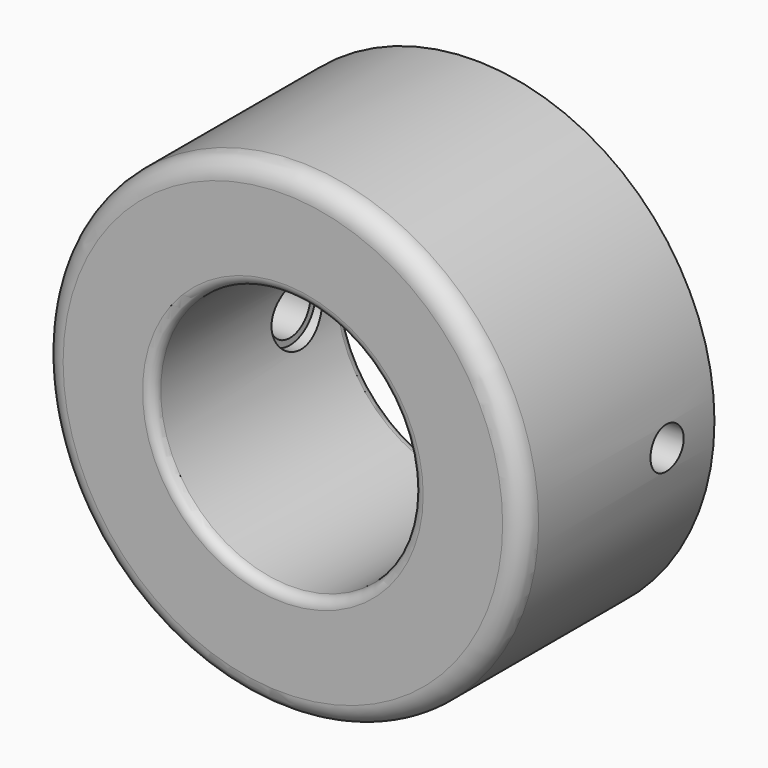
from build123d import *

# Parameters (mm, degrees)
F0_R     = 38.1
F0_R_2   = 20.701
F1_DEPTH = 38.1
F2_R     = 3.175
F3_R     = 3.302
F4_DEPTH = 50.8
F3_R_2   = 4.064
F5_DEPTH = 33.528
F3_R_3   = 5.08
F6_DEPTH = 21.844
F7_R     = 1.6002


with BuildPart() as f1:
    # F0 (on Front) → F1 (new body)
    with BuildSketch(Plane.XZ):
        Circle(F0_R)
        Circle(F0_R_2, mode=Mode.SUBTRACT)
    extrude(amount=F1_DEPTH)

    # F2
    f2_edges = [f1.edges().sort_by_distance(p)[0] for p in [
        (-38.1, -38.1, 0),
    ]]
    fillet(f2_edges, radius=F2_R)

    # F3 (on Right) → F4 (cut, symmetric)
    with BuildSketch(Plane.YZ):
        with Locations((-9.406389, 0)):
            Circle(F3_R)
    extrude(amount=F4_DEPTH, both=True, mode=Mode.SUBTRACT)

    # F3 (on Right) → F5 (cut, symmetric)
    with BuildSketch(Plane.YZ):
        with Locations((-9.406389, 0)):
            Circle(F3_R_2)
        with Locations((-9.406389, 0)):
            Circle(F3_R, mode=Mode.SUBTRACT)
    extrude(amount=F5_DEPTH, both=True, mode=Mode.SUBTRACT)

    # F3 (on Right) → F6 (cut, symmetric)
    with BuildSketch(Plane.YZ):
        with Locations((-9.406389, 0)):
            Circle(F3_R_3)
        with Locations((-9.406389, 0)):
            Circle(F3_R_2, mode=Mode.SUBTRACT)
    extrude(amount=F6_DEPTH, both=True, mode=Mode.SUBTRACT)

    # F7
    f7_edges = [f1.edges().sort_by_distance(p)[0] for p in [
        (-20.701, -38.1, 0),
        (-20.701, 0, 0),
    ]]
    fillet(f7_edges, radius=F7_R)


solid = f1.part
